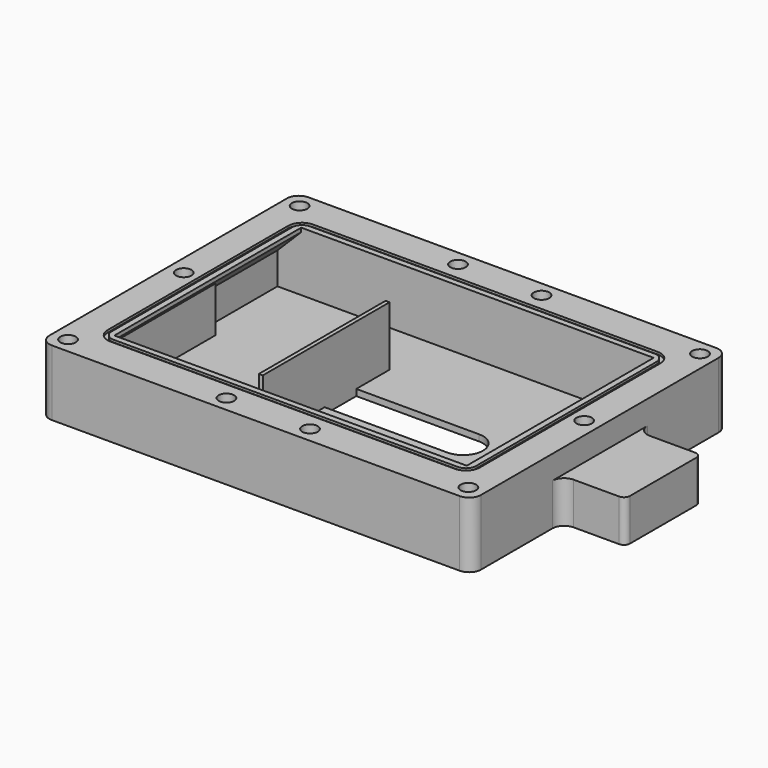
from build123d import *

# Parameters (mm, degrees)
PAD_DEPTH       = 1.6
SKETCH_W        = 101
SKETCH_H        = 59
SKETCH_W_2      = 1
SKETCH_H_2      = 30
SKETCH_H_3      = 40
PAD001_DEPTH    = 16.6
SKETCH002_W     = 16
SKETCH002_H     = 30
POCKET_DEPTH    = 6
SKETCH003_W     = 16
SKETCH003_H     = 8
POCKET001_DEPTH = 16
SKETCH005_R     = 3.55
SKETCH005_R_2   = 1.95
PAD002_DEPTH    = 6.1
PAD005_DEPTH    = 29.5
POCKET003_DEPTH = 0.6
SKETCH004_R     = 1.95
POCKET002_DEPTH = 6.5


with BuildPart() as part:
    # Sketch001 → Pad (new body)
    with BuildSketch(Plane.XY):
        with BuildLine():
            Line((-51.5, 40.5), (51.5, 40.5))
            ThreePointArc((54.5, 37.5), (53.62132, 39.62132), (51.5, 40.5))
            Line((54.5, 37.5), (54.5, 15))
            ThreePointArc((54.5, 15), (55.37868, 12.87868), (57.5, 12))
            Line((57.5, 12), (69, 12))
            ThreePointArc((70.5, 10.5), (70.06066, 11.56066), (69, 12))
            Line((70.5, 10.5), (70.5, -10.5))
            ThreePointArc((69, -12), (70.06066, -11.56066), (70.5, -10.5))
            Line((69, -12), (57.5, -12))
            ThreePointArc((57.5, -12), (55.37868, -12.87868), (54.5, -15))
            Line((54.5, -15), (54.5, -37.5))
            ThreePointArc((51.5, -40.5), (53.62132, -39.62132), (54.5, -37.5))
            Line((51.5, -40.5), (-51.5, -40.5))
            ThreePointArc((-54.5, -37.5), (-53.62132, -39.62132), (-51.5, -40.5))
            Line((-54.5, -37.5), (-54.5, 37.5))
            ThreePointArc((-51.5, 40.5), (-53.62132, 39.62132), (-54.5, 37.5))
        make_face()
        with BuildLine():
            ThreePointArc((-20, 5), (-25, 0), (-20, -5))
            Line((-20, -5), (20, -5))
            ThreePointArc((20, -5), (25, 0), (20, 5))
            Line((20, 5), (-20, 5))
        make_face(mode=Mode.SUBTRACT)
    extrude(amount=PAD_DEPTH)

    # Sketch → Pad001 (join)
    with BuildSketch(Plane.XY):
        with BuildLine():
            Line((-51.5, 40.5), (51.5, 40.5))
            ThreePointArc((54.5, 37.5), (53.62132, 39.62132), (51.5, 40.5))
            Line((54.5, 37.5), (54.5, 15))
            ThreePointArc((54.5, 15), (55.37868, 12.87868), (57.5, 12))
            Line((57.5, 12), (69, 12))
            ThreePointArc((70.5, 10.5), (70.06066, 11.56066), (69, 12))
            Line((70.5, 10.5), (70.5, -10.5))
            ThreePointArc((69, -12), (70.06066, -11.56066), (70.5, -10.5))
            Line((69, -12), (57.5, -12))
            ThreePointArc((57.5, -12), (55.37868, -12.87868), (54.5, -15))
            Line((54.5, -15), (54.5, -37.5))
            ThreePointArc((51.5, -40.5), (53.62132, -39.62132), (54.5, -37.5))
            Line((51.5, -40.5), (-51.5, -40.5))
            ThreePointArc((-54.5, -37.5), (-53.62132, -39.62132), (-51.5, -40.5))
            Line((-54.5, -37.5), (-54.5, 37.5))
            ThreePointArc((-51.5, 40.5), (-53.62132, 39.62132), (-54.5, 37.5))
        make_face()
        Rectangle(SKETCH_W, SKETCH_H, mode=Mode.SUBTRACT)
        with Locations((-47.5, -9.5)):
            Rectangle(SKETCH_W_2, SKETCH_H_2)
        with Locations((-11.5, -4.5)):
            Rectangle(SKETCH_W_2, SKETCH_H_3)
    extrude(amount=PAD001_DEPTH)

    # Sketch002 (on DatumPlane) → Pocket (cut)
    with BuildSketch(Plane.XY.offset(16.6)):
        with Locations((62.5, 0)):
            Rectangle(SKETCH002_W, SKETCH002_H)
    extrude(amount=-POCKET_DEPTH, mode=Mode.SUBTRACT)

    # Sketch003 (on DatumPlane) → Pocket001 (cut)
    with BuildSketch(Plane.YZ.offset(50.5)):
        with Locations((0, 5.6)):
            Rectangle(SKETCH003_W, SKETCH003_H)
    extrude(amount=POCKET001_DEPTH, mode=Mode.SUBTRACT)

    # Sketch005 → Pad002 (join)
    with BuildSketch(Plane.XY):
        with Locations((13.5, -21.5)):
            Circle(SKETCH005_R)
        with Locations((13.5, -21.5)):
            Circle(SKETCH005_R_2, mode=Mode.SUBTRACT)
        with Locations((35.5, -21.5)):
            Circle(SKETCH005_R)
        with Locations((35.5, -21.5)):
            Circle(SKETCH005_R_2, mode=Mode.SUBTRACT)
    extrude(amount=PAD002_DEPTH)

    # Sketch010 → Pad005 (join, symmetric)
    with BuildSketch(Plane.XZ):
        Polygon((44.5, 16.6), (50.5, 16.6), (50.5, 9.6), (44.5, 15.6), align=None)
        Polygon((-50.5, 16.6), (-44.5, 16.6), (-44.5, 15.6), (-50.5, 9.6), align=None)
    extrude(amount=PAD005_DEPTH, both=True)

    # Sketch006 (on DatumPlane) → Pocket003 (cut)
    with BuildSketch(Plane.XY.offset(16.6)):
        with BuildLine():
            Line((-43.5, 32), (43.5, 32))
            ThreePointArc((47, 28.5), (45.974874, 30.974874), (43.5, 32))
            Line((47, 28.5), (47, -28.5))
            ThreePointArc((43.5, -32), (45.974874, -30.974874), (47, -28.5))
            Line((43.5, -32), (-43.5, -32))
            ThreePointArc((-47, -28.5), (-45.974874, -30.974874), (-43.5, -32))
            Line((-47, -28.5), (-47, 28.5))
            ThreePointArc((-43.5, 32), (-45.974874, 30.974874), (-47, 28.5))
        make_face()
        with BuildLine():
            Line((-43.5, 31), (43.5, 31))
            ThreePointArc((46, 28.5), (45.267767, 30.267767), (43.5, 31))
            Line((46, 28.5), (46, -28.5))
            ThreePointArc((43.5, -31), (45.267767, -30.267767), (46, -28.5))
            Line((43.5, -31), (-43.5, -31))
            ThreePointArc((-46, -28.5), (-45.267767, -30.267767), (-43.5, -31))
            Line((-46, -28.5), (-46, 28.5))
            ThreePointArc((-43.5, 31), (-45.267767, 30.267767), (-46, 28.5))
        make_face(mode=Mode.SUBTRACT)
    extrude(amount=-POCKET003_DEPTH, mode=Mode.SUBTRACT)

    # Sketch004 (on DatumPlane) → Pocket002 (cut)
    with BuildSketch(Plane.XY.offset(16.6)):
        with Locations((-50.55, 36.55)):
            Circle(SKETCH004_R)
        with Locations((-10.55, 36.55)):
            Circle(SKETCH004_R)
        with Locations((10.55, 36.55)):
            Circle(SKETCH004_R)
        with Locations((50.55, 36.55)):
            Circle(SKETCH004_R)
        with Locations((50.55, -36.55)):
            Circle(SKETCH004_R)
        with Locations((10.55, -36.55)):
            Circle(SKETCH004_R)
        with Locations((-10.55, -36.55)):
            Circle(SKETCH004_R)
        with Locations((-50.55, -36.55)):
            Circle(SKETCH004_R)
        with Locations((-50.55, 0)):
            Circle(SKETCH004_R)
        with Locations((50.55, 0)):
            Circle(SKETCH004_R)
    extrude(amount=-POCKET002_DEPTH, mode=Mode.SUBTRACT)


solid = part.part
